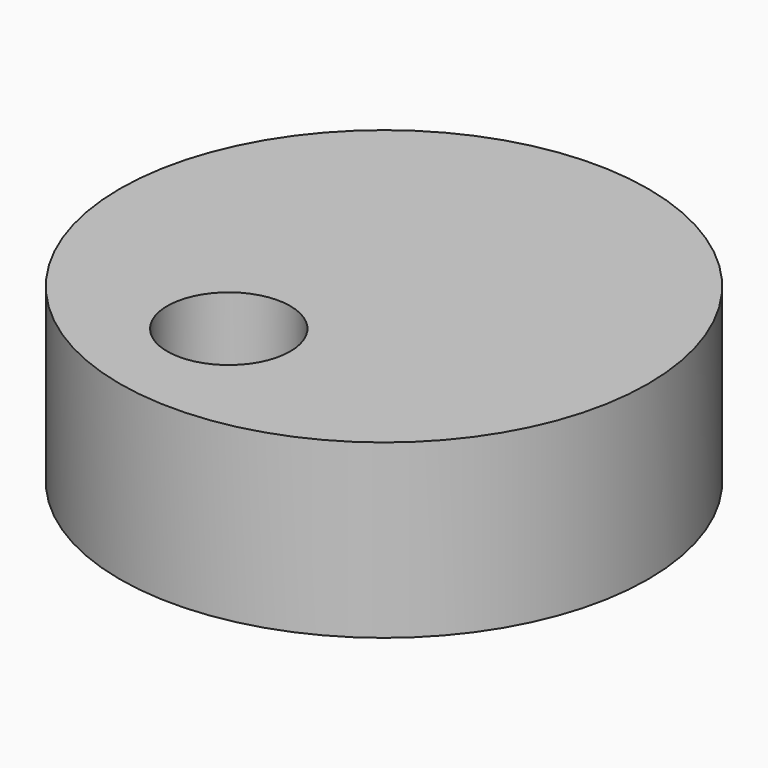
from build123d import *

# Parameters (mm, degrees)
F0_R     = 77.983871
F0_R_2   = 18.158503
F1_DEPTH = 50.8


with BuildPart() as f1:
    # F0 (on Top) → F1 (new body)
    with BuildSketch(Plane.XY):
        with Locations((14.726639, 38.893417)):
            Circle(F0_R)
        Circle(F0_R_2, mode=Mode.SUBTRACT)
    extrude(amount=F1_DEPTH)


solid = f1.part
